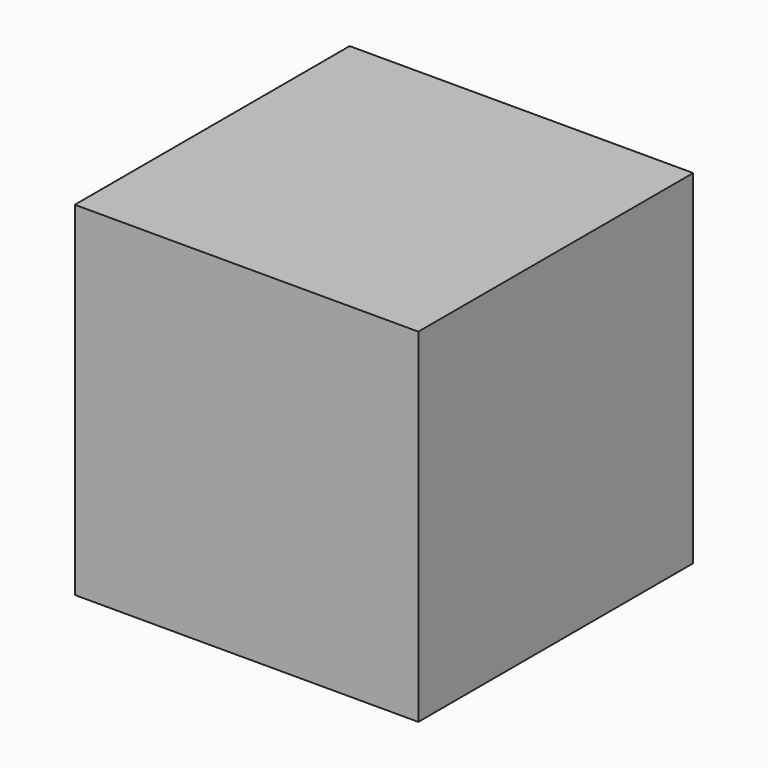
from build123d import *

# Parameters (mm, degrees)
F0_W       = 50.8
F0_H       = 50.8
F1_DEPTH   = 50.8
F2_W       = 49.4867833913
F2_H       = 49.351756752
F1_FACE1_W = 50.8
F1_FACE1_H = 50.8
F3_DEPTH   = 25.4
F4_DEPTH   = 69.85


with BuildPart() as f1:
    # F0 (on Front) → F1 (new body)
    with BuildSketch(Plane.XZ):
        with Locations((25.4, 25.4)):
            Rectangle(F0_W, F0_H)
    extrude(amount=F1_DEPTH)

    # F2 (on face) + F1_face1 (on face) → F3 (join)
    with BuildSketch(Plane(origin=(0, 0, 0), x_dir=(-1, 0, 0), z_dir=(0, 1, 0))):
        with Locations((-25.3845243424, 25.394623488)):
            Rectangle(F2_W, F2_H)
    with BuildSketch(Plane(origin=(25.4, -50.8, 25.4), x_dir=(1, 0, 0), z_dir=(0, -1, 0))):
        Rectangle(F1_FACE1_W, F1_FACE1_H)
    extrude(amount=F3_DEPTH, dir=(0, 1, 0))

    # F4 (cut): a face of the model
    f4_faces = [f1.faces().sort_by_distance(p)[0] for p in [
        (25.3845243424, 25.4, 25.394623488),
    ]]
    extrude(f4_faces, amount=-F4_DEPTH, mode=Mode.SUBTRACT)


solid = f1.part
